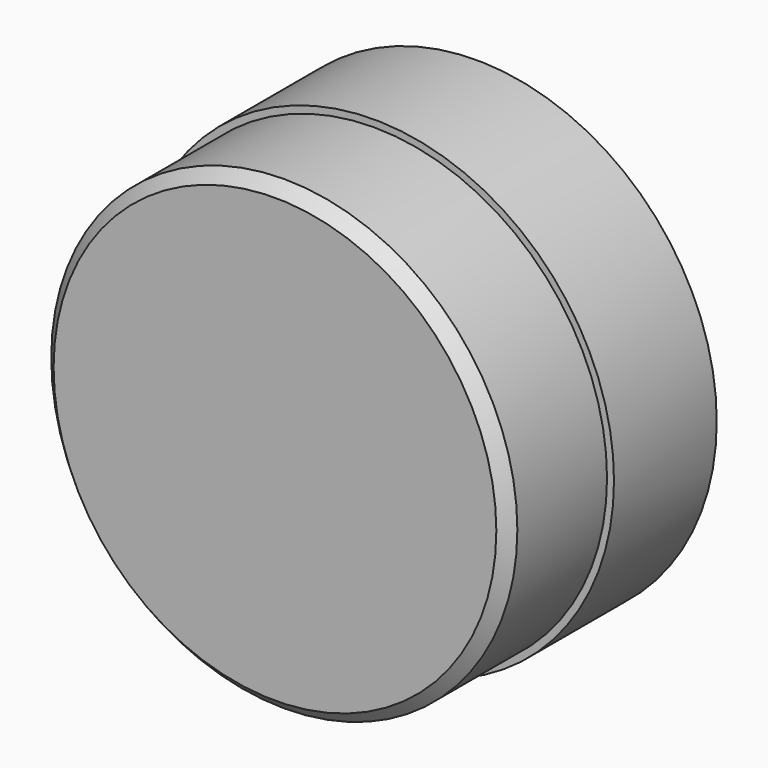
from build123d import *

# Parameters (mm, degrees)
F0_R     = 102.785
F0_R_2   = 99.8
F1_DEPTH = 55
F2_DEPTH = 108
F3_SIZE  = 5


with BuildPart() as f1:
    # F0 (on Front) → F1 (new body)
    with BuildSketch(Plane.XZ):
        Circle(F0_R)
        Circle(F0_R_2, mode=Mode.SUBTRACT)
    extrude(amount=F1_DEPTH)

    # F0 (on Front) → F2 (join)
    with BuildSketch(Plane.XZ):
        Circle(F0_R_2)
    extrude(amount=F2_DEPTH)

    # F3
    f3_edges = [f1.edges().sort_by_distance(p)[0] for p in [
        (-99.8, -108, 0),
    ]]
    chamfer(f3_edges, length=F3_SIZE)


solid = f1.part
